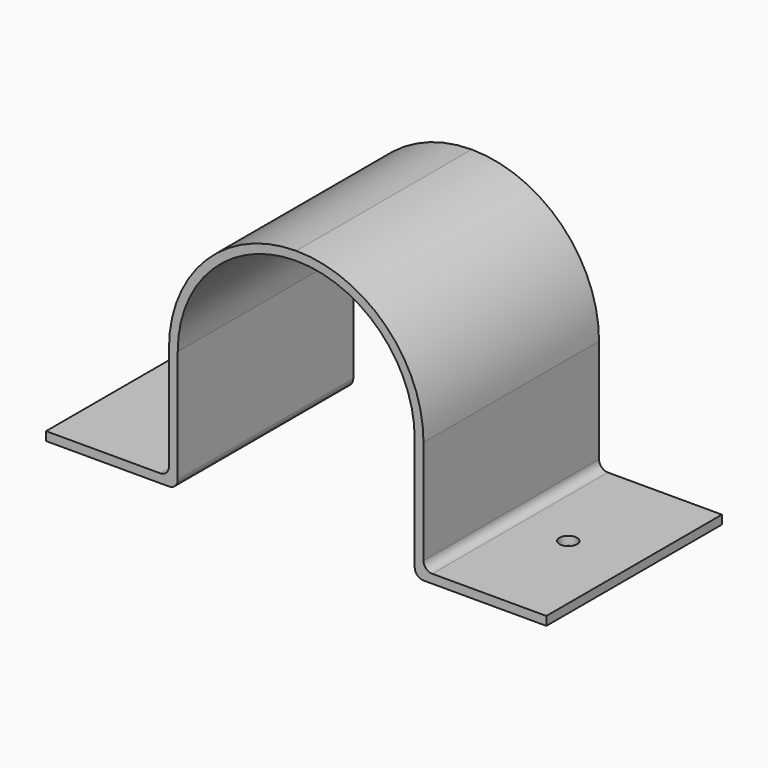
from build123d import *

# Parameters (mm, degrees)
F1_DEPTH = 25
F2_R     = 1
F3_DEPTH = 25
F4_R     = 1
F5_R     = 1


with BuildPart() as f1:
    # F0 (on Front) → F1 (new body)
    with BuildSketch(Plane.XZ):
        with BuildLine():
            ThreePointArc((-13.5, 13.85), (-9.545942, 23.395942), (0, 27.35))
            Line((0, 27.35), (0, 28.35))
            ThreePointArc((0, 28.35), (-10.253048, 24.103048), (-14.5, 13.85))
            Line((-14.5, 13.85), (-14.5, 1))
            Line((-14.5, 1), (-28.5, 1))
            Line((-28.5, 1), (-28.5, 0))
            Line((-28.5, 0), (-13.5, 0))
            Line((-13.5, 0), (-13.5, 13.85))
        make_face()
        with BuildLine():
            Line((0, 28.35), (0, 27.35))
            ThreePointArc((0, 27.35), (9.545942, 23.395942), (13.5, 13.85))
            Line((13.5, 13.85), (13.5, 0))
            Line((13.5, 0), (28.5, 0))
            Line((28.5, 0), (28.5, 1))
            Line((28.5, 1), (14.5, 1))
            Line((14.5, 1), (14.5, 13.85))
            ThreePointArc((14.5, 13.85), (10.253048, 24.103048), (0, 28.35))
        make_face()
    extrude(amount=F1_DEPTH)

    # F2 (on face) → F3 (cut)
    with BuildSketch(Plane.XY.offset(1)):
        with Locations((-21, -12.5)):
            Circle(F2_R)
        with Locations((21, -12.5)):
            Circle(F2_R)
    extrude(amount=-F3_DEPTH, mode=Mode.SUBTRACT)

    # F4
    f4_edges = [f1.edges().sort_by_distance(p)[0] for p in [
        (14.5, -12.5, 1),
        (13.5, -12.5, 0),
    ]]
    fillet(f4_edges, radius=F4_R)

    # F5
    f5_edges = [f1.edges().sort_by_distance(p)[0] for p in [
        (-14.5, -12.5, 1),
        (-13.5, -12.5, 0),
    ]]
    fillet(f5_edges, radius=F5_R)


solid = f1.part
